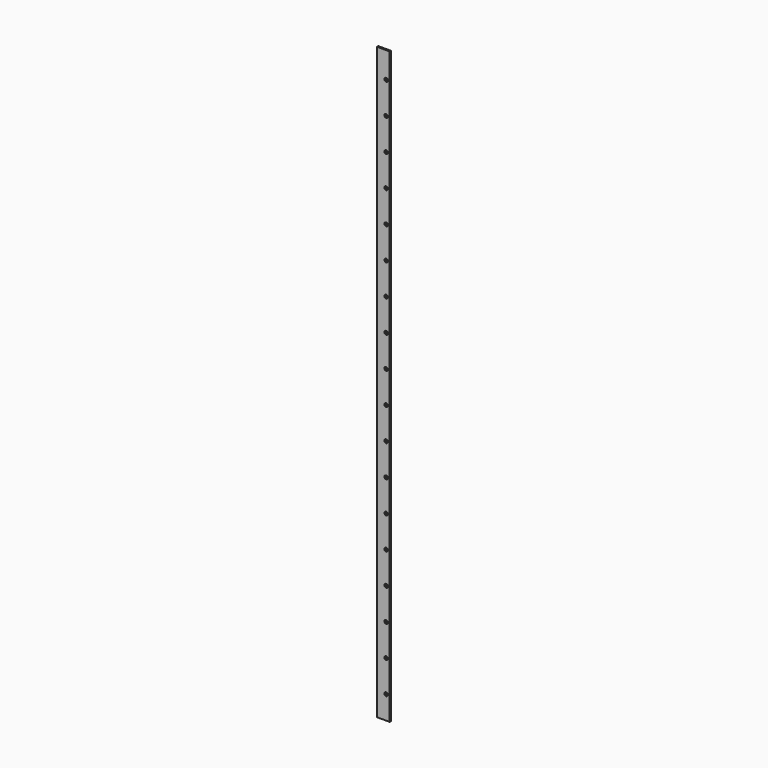
from build123d import *

# Parameters (mm, degrees)
F0_W     = 39.5
F0_H     = 1855
F0_R     = 5.5
F1_DEPTH = 5


with BuildPart() as f1:
    # F0 (on Front) → F1 (new body)
    with BuildSketch(Plane.XZ):
        with Locations((-183.987974, 903.800355)):
            Rectangle(F0_W, F0_H)
        with Locations((-175.237974, 49.300355)):
            Circle(F0_R, mode=Mode.SUBTRACT)
        with Locations((-175.237974, 149.300355)):
            Circle(F0_R, mode=Mode.SUBTRACT)
        with Locations((-175.237974, 249.300355)):
            Circle(F0_R, mode=Mode.SUBTRACT)
        with Locations((-175.237974, 349.300355)):
            Circle(F0_R, mode=Mode.SUBTRACT)
        with Locations((-175.237974, 449.300355)):
            Circle(F0_R, mode=Mode.SUBTRACT)
        with Locations((-175.237974, 549.300355)):
            Circle(F0_R, mode=Mode.SUBTRACT)
        with Locations((-175.237974, 649.300355)):
            Circle(F0_R, mode=Mode.SUBTRACT)
        with Locations((-175.237974, 749.300355)):
            Circle(F0_R, mode=Mode.SUBTRACT)
        with Locations((-175.237974, 849.300355)):
            Circle(F0_R, mode=Mode.SUBTRACT)
        with Locations((-175.237974, 949.300355)):
            Circle(F0_R, mode=Mode.SUBTRACT)
        with Locations((-175.237974, 1049.300355)):
            Circle(F0_R, mode=Mode.SUBTRACT)
        with Locations((-175.237974, 1149.300355)):
            Circle(F0_R, mode=Mode.SUBTRACT)
        with Locations((-175.237974, 1249.300355)):
            Circle(F0_R, mode=Mode.SUBTRACT)
        with Locations((-175.237974, 1349.300355)):
            Circle(F0_R, mode=Mode.SUBTRACT)
        with Locations((-175.237974, 1449.300355)):
            Circle(F0_R, mode=Mode.SUBTRACT)
        with Locations((-175.237974, 1549.300355)):
            Circle(F0_R, mode=Mode.SUBTRACT)
        with Locations((-175.237974, 1649.300355)):
            Circle(F0_R, mode=Mode.SUBTRACT)
        with Locations((-175.237974, 1749.300355)):
            Circle(F0_R, mode=Mode.SUBTRACT)
        with Locations((-183.987974, 903.800355)):
            Rectangle(F0_W, F0_H)
        with Locations((-175.237974, 49.300355)):
            Circle(F0_R, mode=Mode.SUBTRACT)
        with Locations((-175.237974, 149.300355)):
            Circle(F0_R, mode=Mode.SUBTRACT)
        with Locations((-175.237974, 249.300355)):
            Circle(F0_R, mode=Mode.SUBTRACT)
        with Locations((-175.237974, 349.300355)):
            Circle(F0_R, mode=Mode.SUBTRACT)
        with Locations((-175.237974, 449.300355)):
            Circle(F0_R, mode=Mode.SUBTRACT)
        with Locations((-175.237974, 549.300355)):
            Circle(F0_R, mode=Mode.SUBTRACT)
        with Locations((-175.237974, 649.300355)):
            Circle(F0_R, mode=Mode.SUBTRACT)
        with Locations((-175.237974, 749.300355)):
            Circle(F0_R, mode=Mode.SUBTRACT)
        with Locations((-175.237974, 849.300355)):
            Circle(F0_R, mode=Mode.SUBTRACT)
        with Locations((-175.237974, 949.300355)):
            Circle(F0_R, mode=Mode.SUBTRACT)
        with Locations((-175.237974, 1049.300355)):
            Circle(F0_R, mode=Mode.SUBTRACT)
        with Locations((-175.237974, 1149.300355)):
            Circle(F0_R, mode=Mode.SUBTRACT)
        with Locations((-175.237974, 1249.300355)):
            Circle(F0_R, mode=Mode.SUBTRACT)
        with Locations((-175.237974, 1349.300355)):
            Circle(F0_R, mode=Mode.SUBTRACT)
        with Locations((-175.237974, 1449.300355)):
            Circle(F0_R, mode=Mode.SUBTRACT)
        with Locations((-175.237974, 1549.300355)):
            Circle(F0_R, mode=Mode.SUBTRACT)
        with Locations((-175.237974, 1649.300355)):
            Circle(F0_R, mode=Mode.SUBTRACT)
        with Locations((-175.237974, 1749.300355)):
            Circle(F0_R, mode=Mode.SUBTRACT)
    extrude(amount=F1_DEPTH)


solid = f1.part
